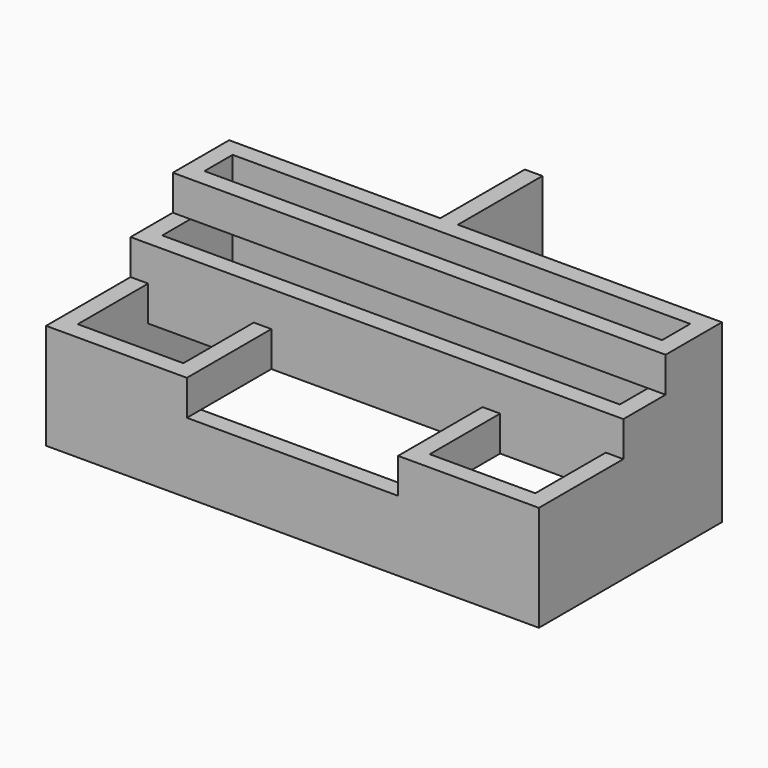
from build123d import *

# Parameters (mm, degrees)
F0_W     = 2800
F0_H     = 1300
F0_W_2   = 2600
F0_H_2   = 1100
F1_DEPTH = 400
F2_W     = 2800
F2_H     = 700
F2_W_2   = 2600
F2_H_2   = 500
F3_DEPTH = 400
F4_W     = 2800
F4_H     = 400
F4_W_2   = 2600
F4_H_2   = 200
F5_DEPTH = 200
F6_W     = 100
F6_H     = 600
F7_DEPTH = 1000
F8_W     = 100
F8_H     = 500
F8_H_2   = 100
F8_W_2   = 600
F9_DEPTH = 200


with BuildPart() as f1:
    # F0 (on Top) → F1 (new body)
    with BuildSketch(Plane.XY):
        with Locations((-1400, 650)):
            Rectangle(F0_W, F0_H)
        with Locations((-1400, 650)):
            Rectangle(F0_W_2, F0_H_2, mode=Mode.SUBTRACT)
    extrude(amount=F1_DEPTH)

    # F2 (on face) → F3 (join)
    with BuildSketch(Plane.XY.offset(400)):
        with Locations((-1400, 950)):
            Rectangle(F2_W, F2_H)
        with Locations((-1400, 950)):
            Rectangle(F2_W_2, F2_H_2, mode=Mode.SUBTRACT)
    extrude(amount=F3_DEPTH)

    # F4 (on face) → F5 (join)
    with BuildSketch(Plane.XY.offset(800)):
        with Locations((-1400, 1100)):
            Rectangle(F4_W, F4_H)
        with Locations((-1400, 1100)):
            Rectangle(F4_W_2, F4_H_2, mode=Mode.SUBTRACT)
    extrude(amount=F5_DEPTH)

    # F6 (on Top) → F7 (join)
    with BuildSketch(Plane.XY):
        with Locations((-1550, 1600)):
            Rectangle(F6_W, F6_H)
    extrude(amount=F7_DEPTH)

    # F8 (on face) → F9 (join)
    with BuildSketch(Plane.XY.offset(400)):
        with Locations((-750, 350)):
            Rectangle(F8_W, F8_H)
        with Locations((-750, 50)):
            Rectangle(F8_W, F8_H_2)
        with Locations((-400, 50)):
            Rectangle(F8_W_2, F8_H_2)
        Polygon((-100, 100), (-100, 0), (0, 0), (0, 500), (0, 600), (-100, 600), align=None)
        with Locations((-2050, 350)):
            Rectangle(F8_W, F8_H)
        Polygon((-2800, 600), (-2800, 0), (-2000, 0), (-2000, 100), (-2100, 100), (-2700, 100), (-2700, 600), align=None)
    extrude(amount=F9_DEPTH)


solid = f1.part
